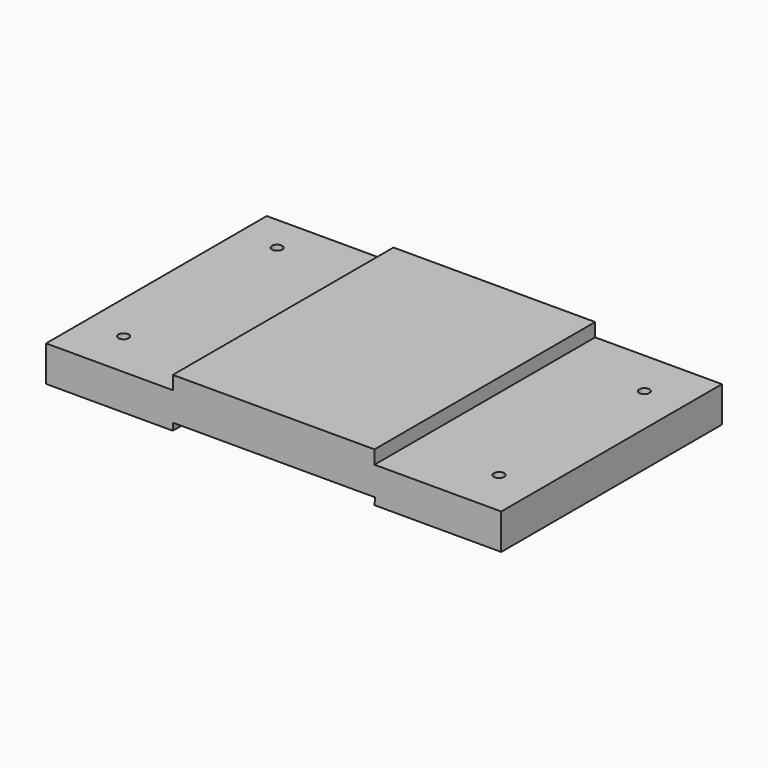
from build123d import *

# Parameters (mm, degrees)
F1_DEPTH = 41.425
F2_R     = 1.55
F3_DEPTH = 22.339877


with BuildPart() as f1:
    # F0 (on Front) → F1 (new body, symmetric)
    with BuildSketch(Plane.XZ):
        Polygon((-22.752756, 18.288877), (-60.822756, 18.288877), (-60.822756, 7.558877), (-22.752756, 7.558877), (-22.625374, 9.708877), (38.016342, 9.708877), (37.817244, 7.578877), (75.887244, 7.578877), (75.887244, 18.288877), (37.817244, 18.288877), (37.817244, 22.338877), (-22.752756, 22.338877), align=None)
    extrude(amount=F1_DEPTH, both=True)

    # F2 (on Top) → F3 (cut, through all)
    with BuildSketch(Plane.XY):
        with Locations((-48.862756, 30.375)):
            Circle(F2_R)
        with Locations((63.927244, 27.275)):
            Circle(F2_R)
        with Locations((63.927244, -27.275)):
            Circle(F2_R)
        with Locations((-48.862756, -27.275)):
            Circle(F2_R)
    extrude(amount=F3_DEPTH, mode=Mode.SUBTRACT)


solid = f1.part
